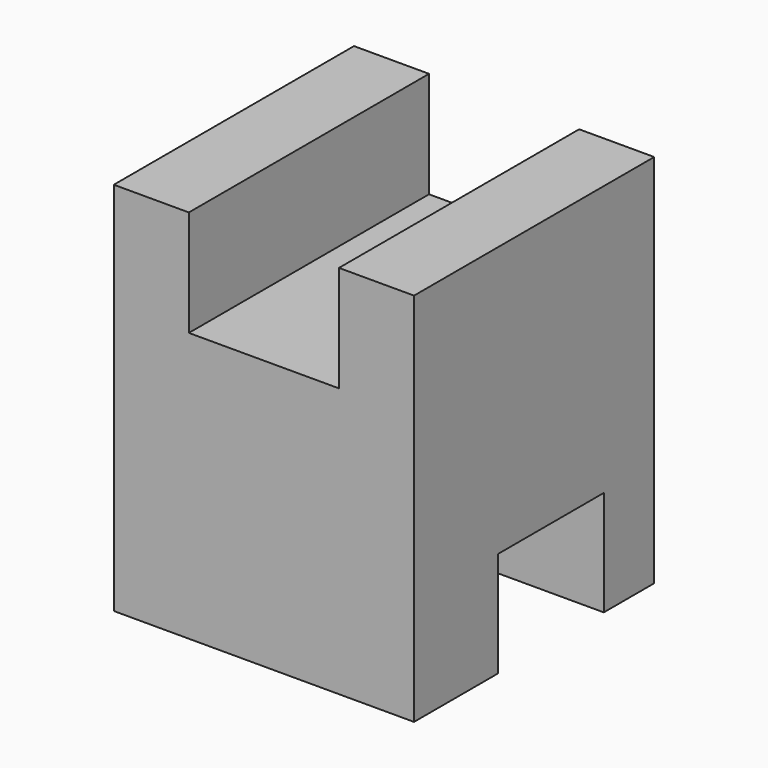
from build123d import *

# Parameters (mm, degrees)
F1_DEPTH = 25.4
F2_W     = 10.244804
F2_H     = 5.900593
F3_DEPTH = 12.7
F4_DEPTH = 12.7
F5_W     = 11.174377
F5_H     = 8.899484
F6_DEPTH = 25.4


with BuildPart() as f1:
    # F0 (on Front) → F1 (new body)
    with BuildSketch(Plane.XZ):
        Polygon((11.595629, 31.75), (11.595629, 0), (36.995629, 0), (36.995629, 31.75), (30.645629, 31.75), (30.645629, 22.77716), (17.945629, 22.77716), (17.945629, 31.75), align=None)
    extrude(amount=F1_DEPTH)

    # F2 (on Right) → F3 (cut)
    with BuildSketch(Plane.YZ):
        with Locations((-12.251601, 2.950296)):
            Rectangle(F2_W, F2_H)
    extrude(amount=-F3_DEPTH, mode=Mode.SUBTRACT)

    # F2 (on Right) → F4 (cut)
    with BuildSketch(Plane.YZ):
        with Locations((-12.251601, 2.950296)):
            Rectangle(F2_W, F2_H)
    extrude(amount=-F4_DEPTH, mode=Mode.SUBTRACT)

    # F5 (on face) → F6 (cut)
    with BuildSketch(Plane(origin=(11.595629, 0, 0), x_dir=(0, -1, 0), z_dir=(-1, 0, 0))):
        with Locations((10.92072, 4.449742)):
            Rectangle(F5_W, F5_H)
    extrude(amount=-F6_DEPTH, mode=Mode.SUBTRACT)


solid = f1.part
